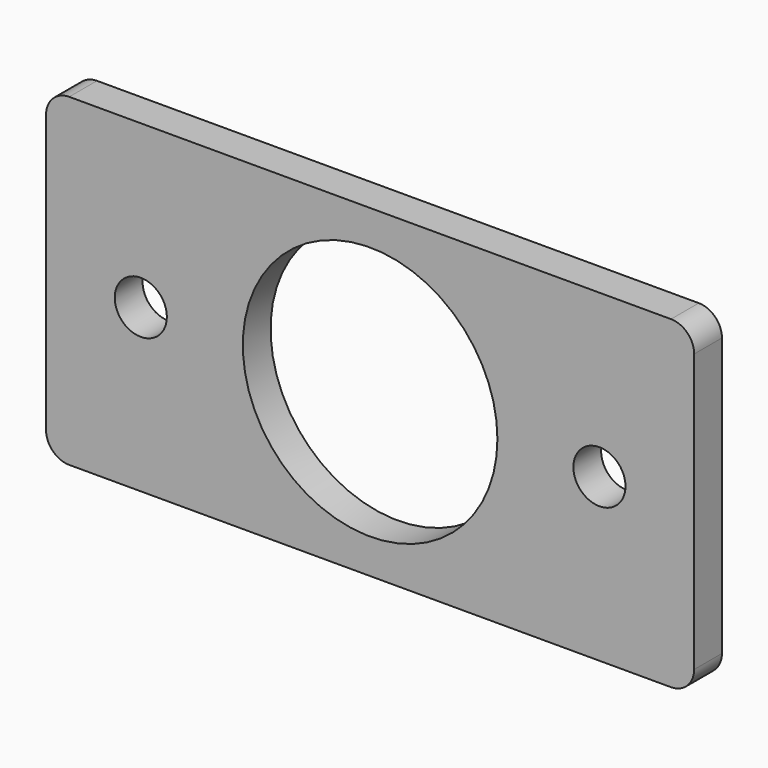
from build123d import *

# Parameters (mm, degrees)
F0_R     = 7.14375
F0_R_2   = 34.925
F1_DEPTH = 9.525


with BuildPart() as f1:
    # F0 (on Front) → F1 (new body)
    with BuildSketch(Plane.XZ):
        with BuildLine():
            ThreePointArc((88.9, 38.1), (87.040128, 42.590128), (82.55, 44.45))
            Line((82.55, 44.45), (-82.55, 44.45))
            ThreePointArc((-82.55, 44.45), (-87.040128, 42.590128), (-88.9, 38.1))
            Line((-88.9, 38.1), (-88.9, -38.1))
            ThreePointArc((-88.9, -38.1), (-87.040128, -42.590128), (-82.55, -44.45))
            Line((-82.55, -44.45), (82.55, -44.45))
            ThreePointArc((82.55, -44.45), (87.040128, -42.590128), (88.9, -38.1))
            Line((88.9, -38.1), (88.9, 38.1))
        make_face()
        with Locations((-62.912549, 0)):
            Circle(F0_R, mode=Mode.SUBTRACT)
        Circle(F0_R_2, mode=Mode.SUBTRACT)
        with Locations((62.912574, 0)):
            Circle(F0_R, mode=Mode.SUBTRACT)
    extrude(amount=F1_DEPTH)


solid = f1.part
